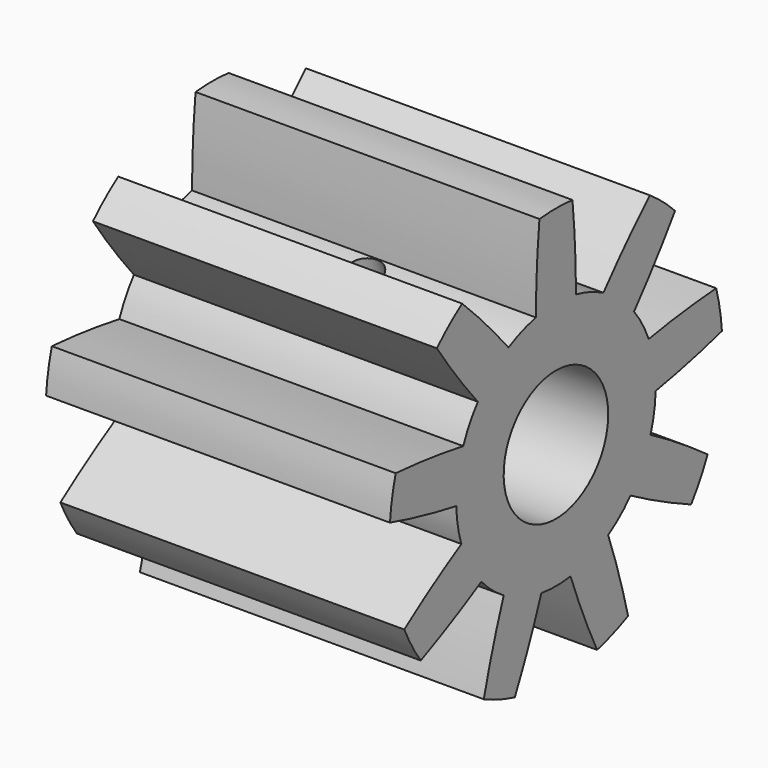
from build123d import *

# Parameters (mm, degrees)
F0_W     = 50
F0_H     = 20.75
F3_DEPTH = 50.001
F4_COUNT = 9


with BuildPart() as f1:
    # F0 (on Front) → F1 (revolve)
    with BuildSketch(Plane.XZ):
        with Locations((-25, 19.875)):
            Rectangle(F0_W, F0_H)
    revolve(axis=Axis((-20.0732499361, 0, 0), (1, 0, 0)))

    # F2 (on face) → F3 (cut, through all)
    with BuildSketch(Plane.YZ):
        with BuildLine():
            ThreePointArc((-8.6240252272, 15.9361409658), (-6.1974049971, 17.0272302886), (-3.6371673564, 17.7512087932))
            ThreePointArc((-3.6371673564, 17.7512087932), (-3.4777696522, 23.9342534629), (-3, 30.1008720804))
            ThreePointArc((-3, 30.1008720804), (-10.3461093356, 28.4257017788), (-17.0503342847, 24.9869686193))
            ThreePointArc((-17.0503342847, 24.9869686193), (-12.7205154565, 20.5701691072), (-8.6240252272, 15.9361409658))
        make_face()
    f3 = extrude(amount=-F3_DEPTH, mode=Mode.SUBTRACT)

    # F4: F3 ×9 about axis
    f4_axis = Axis((-20.0732499361, 0, 0), (1, 0, 0))
    for i in range(1, F4_COUNT):
        add(f3.rotate(f4_axis, i * 360 / F4_COUNT), mode=Mode.SUBTRACT)

    # F6 (on offset) → F7 (revolve, cut)
    with BuildSketch(Plane.YZ.offset(-23)):
        Polygon((-4.5322137317, 19.7616658885), (-6.8814452837, 18.9066155302), (-2.7772035638, 7.6303040808), (-0.4279720118, 8.4853544391), align=None)
    revolve(axis=Axis((-23, -3.7938283898, 10.4234578343), (0, 0.3420201433, -0.9396926208)), mode=Mode.SUBTRACT)


solid = f1.part
